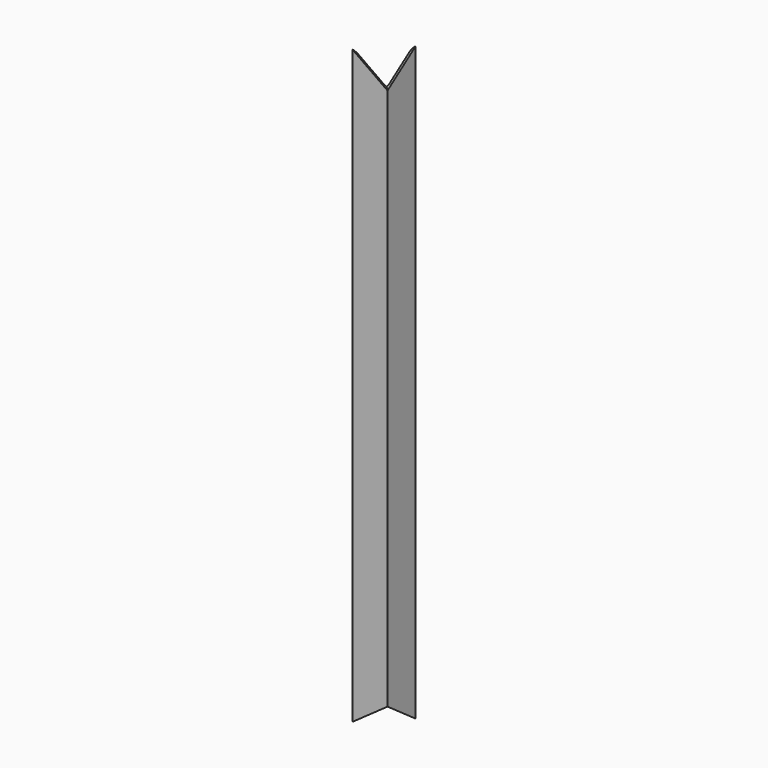
from build123d import *

# Parameters (mm, degrees)
F1_DEPTH = 870
F4_DEPTH = 100


with BuildPart() as f1:
    # F0 (on Top) → F1 (new body)
    with BuildSketch(Plane.XY):
        with BuildLine():
            Line((-50, 0), (0, 0))
            Line((0, 0), (0, 50))
            ThreePointArc((0, 50), (-3.535534, 48.535534), (-5, 45))
            Line((-5, 45), (-5, 10))
            ThreePointArc((-5, 10), (-6.464466, 6.464466), (-10, 5))
            Line((-10, 5), (-45, 5))
            ThreePointArc((-45, 5), (-48.535534, 3.535534), (-50, 0))
        make_face()
    extrude(amount=F1_DEPTH)

    # F3 (on face) → F4 (cut)
    with BuildSketch(Plane(origin=(0, 0, 0), x_dir=(-0.707107, -0.707107, 0), z_dir=(-0.707107, 0.707107, 0))):
        Polygon((-50, 0), (0, 0), (0, 50), align=None)
        Polygon((0, 50), (0, 0), (50, 0), align=None)
        Polygon((-50, 870), (0, 820), (0, 870), align=None)
        Polygon((0, 870), (0, 820), (50, 870), align=None)
    extrude(amount=F4_DEPTH, mode=Mode.SUBTRACT)


solid = f1.part
